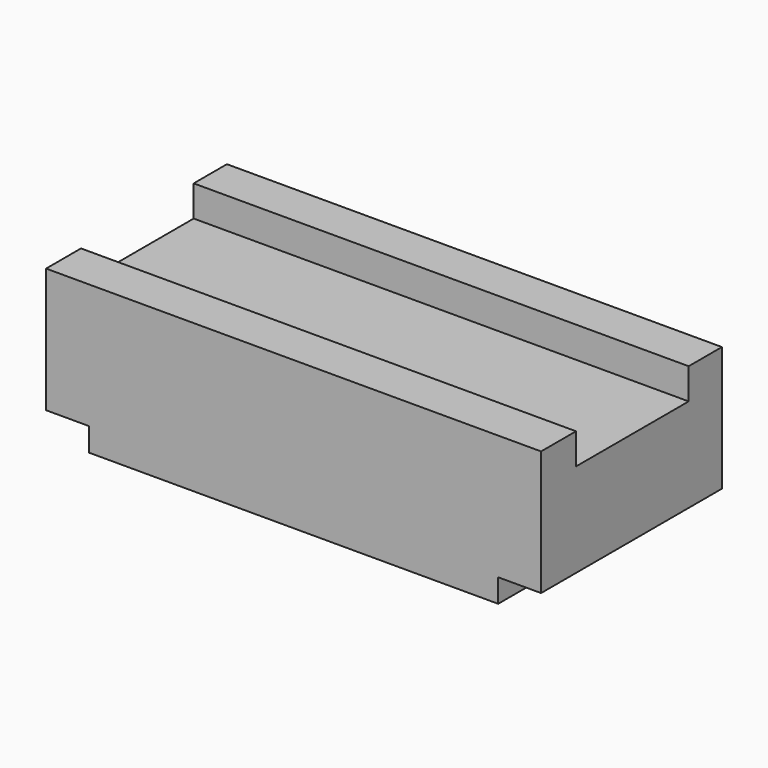
from build123d import *

# Parameters (mm, degrees)
F0_W     = 127
F0_H     = 38
F1_DEPTH = 58
F2_W     = 58
F2_H     = 6
F3_DEPTH = 11
F4_W     = 58
F4_H     = 6
F5_DEPTH = 11
F6_W     = 36.136753
F6_H     = 7.943855
F7_DEPTH = 200


with BuildPart() as f1:
    # F0 (on Front) → F1 (new body)
    with BuildSketch(Plane.XZ):
        with Locations((63.5, 19)):
            Rectangle(F0_W, F0_H)
    extrude(amount=F1_DEPTH)

    # F2 (on face) → F3 (cut)
    with BuildSketch(Plane.YZ.offset(127)):
        with Locations((-29, 3)):
            Rectangle(F2_W, F2_H)
    extrude(amount=-F3_DEPTH, mode=Mode.SUBTRACT)

    # F4 (on face) → F5 (cut)
    with BuildSketch(Plane(origin=(0, 0, 0), x_dir=(0, -1, 0), z_dir=(-1, 0, 0))):
        with Locations((29, 3)):
            Rectangle(F4_W, F4_H)
    extrude(amount=-F5_DEPTH, mode=Mode.SUBTRACT)

    # F6 (on face) → F7 (cut)
    with BuildSketch(Plane.YZ.offset(127)):
        with Locations((-28.729976, 34.028073)):
            Rectangle(F6_W, F6_H)
    extrude(amount=-F7_DEPTH, mode=Mode.SUBTRACT)


solid = f1.part
